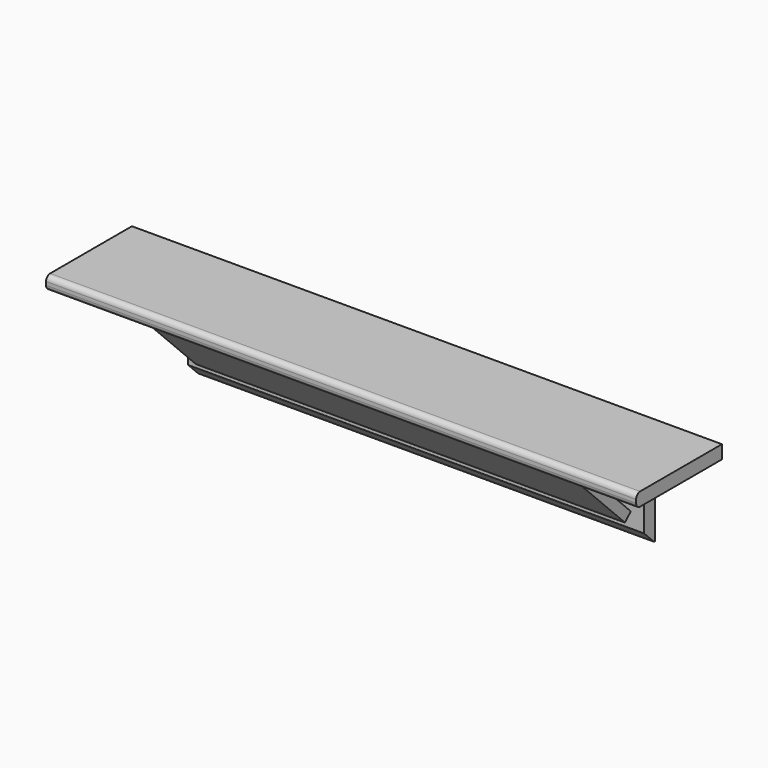
from build123d import *

# Parameters (mm, degrees)
F1_DEPTH  = 279.4
F2_R      = 2.3622
F4_DEPTH  = 279.4
F5_W      = 38.1
F5_H      = 44.45
F6_DEPTH  = 4.7625
F7_W      = 38.1
F7_H      = 44.45
F8_DEPTH  = 4.7625
F9_W      = 31.75
F9_H      = 44.45
F10_DEPTH = 25.4
F11_W     = 31.75
F11_H     = 50.8
F12_DEPTH = 25.4
F13_R     = 4.572
F14_SIZE  = 5.842


with BuildPart() as f1:
    # F0 (on Right) → F1 (new body)
    with BuildSketch(Plane.YZ):
        Polygon((50.8, 0), (0, 0), (0, -6.35), (44.45, -6.35), (44.45, -50.8), (50.8, -50.8), align=None)
    extrude(amount=-F1_DEPTH)

    # F2
    f2_edges = [f1.edges().sort_by_distance(p)[0] for p in [
        (-139.7, 0, -6.35),
        (-139.7, 0, 0),
    ]]
    fillet(f2_edges, radius=F2_R)

    # F9 (on face) → F10 (cut)
    with BuildSketch(Plane.XZ.offset(-44.45)):
        with Locations((-15.875, -28.575)):
            Rectangle(F9_W, F9_H)
    extrude(amount=-F10_DEPTH, mode=Mode.SUBTRACT)

    # F11 (on face) → F12 (cut)
    with BuildSketch(Plane.XZ.offset(-44.45)):
        with Locations((-263.525, -31.75)):
            Rectangle(F11_W, F11_H)
    extrude(amount=-F12_DEPTH, mode=Mode.SUBTRACT)

    # F13
    f13_edges = [f1.edges().sort_by_distance(p)[0] for p in [
        (-139.7, 44.45, -6.35),
    ]]
    fillet(f13_edges, radius=F13_R)

    # F14
    f14_edges = [f1.edges().sort_by_distance(p)[0] for p in [
        (-139.7, 44.45, -50.8),
    ]]
    chamfer(f14_edges, length=F14_SIZE)


with BuildPart() as f4:
    # F3 (on face) → F4 (new body)
    with BuildSketch(Plane.YZ):
        Polygon((44.45, -37.780896), (13.019104, -6.35), (9.651508, -9.717596), (41.082404, -41.148492), align=None)
    extrude(amount=-F4_DEPTH)

    # F5 (on face) → F6 (cut)
    with BuildSketch(Plane(origin=(0, -0.033044, -0.033044), x_dir=(1, 0, 0), z_dir=(0, -0.707107, -0.707107))):
        with Locations((-260.35, -35.921024)):
            Rectangle(F5_W, F5_H)
    extrude(amount=-F6_DEPTH, mode=Mode.SUBTRACT)

    # F7 (on face) → F8 (cut)
    with BuildSketch(Plane(origin=(0, -0.033044, -0.033044), x_dir=(1, 0, 0), z_dir=(0, -0.707107, -0.707107))):
        with Locations((-19.05, -35.921024)):
            Rectangle(F7_W, F7_H)
    extrude(amount=-F8_DEPTH, mode=Mode.SUBTRACT)


solid = Compound([f1.part, f4.part])
